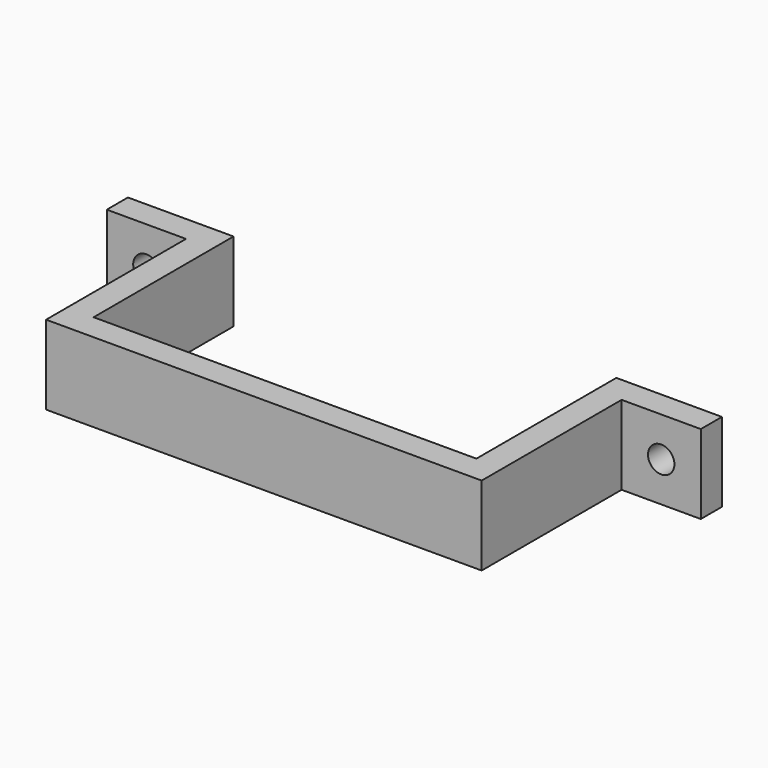
from build123d import *

# Parameters (mm, degrees)
CYLINDER001_R     = 2
CYLINDER001_DEPTH = 10
CYLINDER_R        = 2
CYLINDER_DEPTH    = 10
EXTRUDE_DEPTH     = 12


with BuildPart() as cylinder001:
    # Cylinder001 → Cylinder001 (new body)
    with BuildSketch(Plane(origin=(39, 13, 6), x_dir=(1, 0, 0), z_dir=(0, -1, 0))):
        Circle(CYLINDER001_R)
    extrude(amount=CYLINDER001_DEPTH)


with BuildPart() as cylinder:
    # Cylinder → Cylinder (new body)
    with BuildSketch(Plane(origin=(-39, 13, 6), x_dir=(1, 0, 0), z_dir=(0, -1, 0))):
        Circle(CYLINDER_R)
    extrude(amount=CYLINDER_DEPTH)


with BuildPart() as cut001:
    # Sketch → Extrude (new body)
    with BuildSketch(Plane.XY):
        Polygon((-29, -16.5), (29, -16.5), (29, 10), (45, 10), (45, 6), (33, 6), (33, -20.5), (-33, -20.5), (-33, 6), (-45, 6), (-45, 10), (-29, 10), align=None)
    extrude(amount=EXTRUDE_DEPTH)

    # Cut: cut Cylinder
    add(cylinder.part, mode=Mode.SUBTRACT)

    # Cut001: cut Cylinder001
    add(cylinder001.part, mode=Mode.SUBTRACT)


solid = cut001.part
